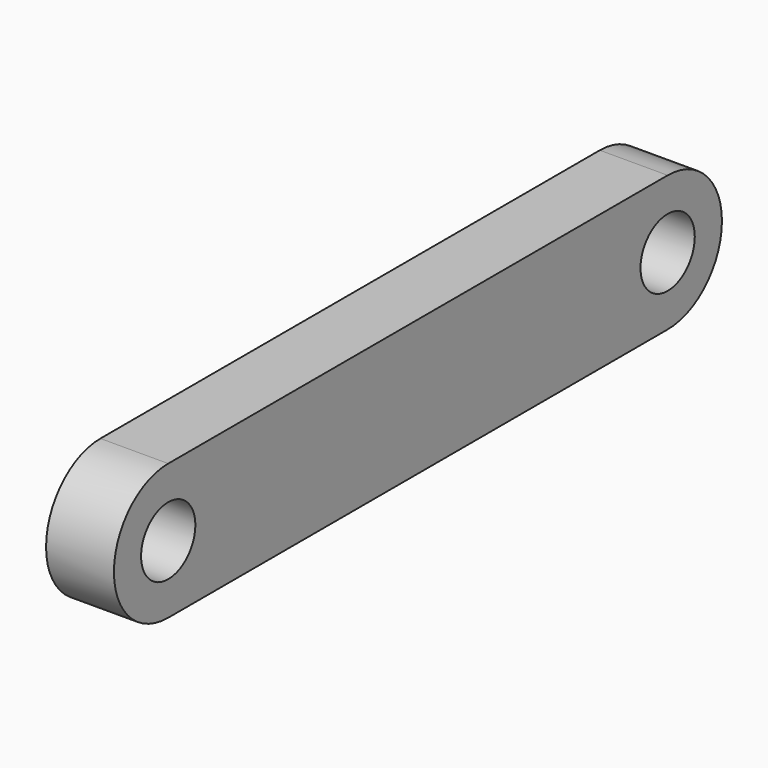
from build123d import *

# Parameters (mm, degrees)
F0_R     = 3.175
F1_DEPTH = 6.35


with BuildPart() as f1:
    # F0 (on Right) → F1 (new body)
    with BuildSketch(Plane.YZ):
        with BuildLine():
            Line((58.42, 6.35), (0, 6.35))
            ThreePointArc((0, 6.35), (-6.35, 0), (0, -6.35))
            Line((0, -6.35), (58.42, -6.35))
            ThreePointArc((58.42, -6.35), (64.77, 0), (58.42, 6.35))
        make_face()
        Circle(F0_R, mode=Mode.SUBTRACT)
        with Locations((58.42, 0)):
            Circle(F0_R, mode=Mode.SUBTRACT)
    extrude(amount=F1_DEPTH)


solid = f1.part
